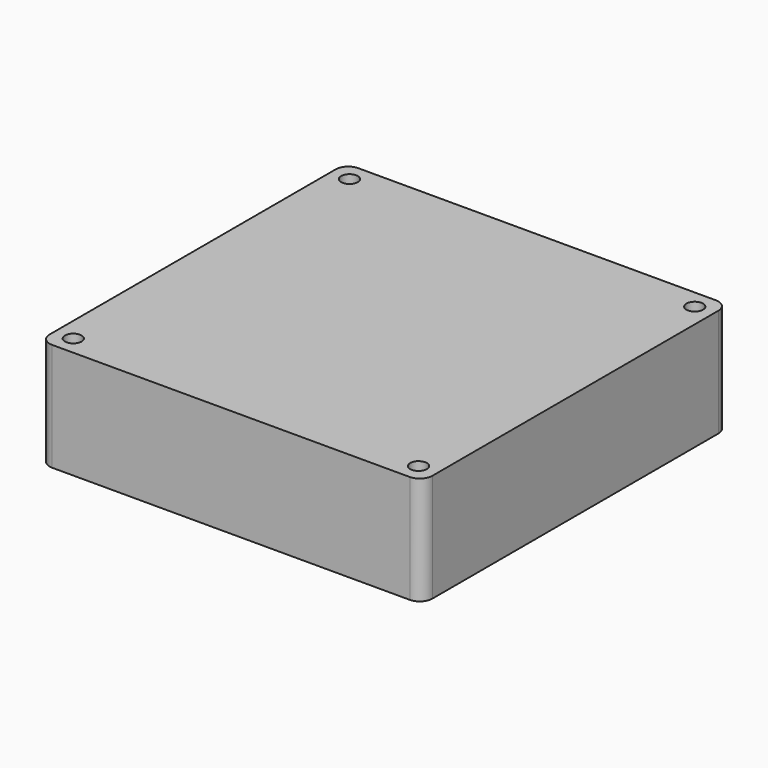
from build123d import *

# Parameters (mm, degrees)
SKETCH003_W       = 92
SKETCH003_H       = 92
PAD003_DEPTH      = 26
SKETCH004_R       = 2
POCKET_DEPTH      = 26.001
POCKET_DEPTH_BACK = 0.001
FILLET_R          = 3


with BuildPart() as part:
    # Sketch003 → Pad003 (new body)
    with BuildSketch(Plane.XY):
        Rectangle(SKETCH003_W, SKETCH003_H)
    extrude(amount=PAD003_DEPTH)

    # Sketch004 (on Face5 of Pad003) → Pocket (cut, two sides)
    with BuildSketch(Plane(origin=(0, 0, 0), x_dir=(1, 0, 0), z_dir=(0, 0, -1))) as pocket_sk:
        with Locations((41.5, 41.5)):
            Circle(SKETCH004_R)
        with Locations((-41.5, 41.5)):
            Circle(SKETCH004_R)
        with Locations((41.5, -41.5)):
            Circle(SKETCH004_R)
        with Locations((-41.5, -41.5)):
            Circle(SKETCH004_R)
    extrude(amount=-POCKET_DEPTH, mode=Mode.SUBTRACT)
    extrude(pocket_sk.sketch, amount=POCKET_DEPTH_BACK, mode=Mode.SUBTRACT)

    # Fillet
    fillet_edges = [part.edges().sort_by_distance(p)[0] for p in [
        (-46, 46, 13),
        (-46, -46, 13),
        (46, -46, 13),
        (46, 46, 13),
    ]]
    fillet(fillet_edges, radius=FILLET_R)


solid = part.part
